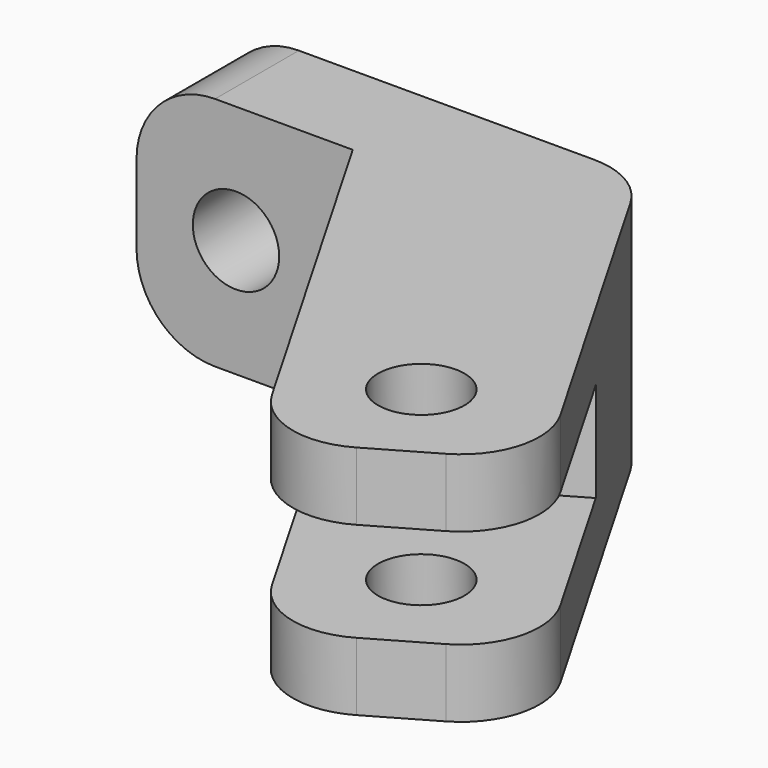
from build123d import *

# Parameters (mm, degrees)
F1_DEPTH = 9
F3_W     = 20
F3_H     = 3.8
F4_DEPTH = 25
F6_D     = 3.3
F7_D     = 3.3
F8_R     = 3


with BuildPart() as f1:
    # F0 (on Top) → F1 (new body)
    with BuildSketch(Plane.XY):
        Polygon((8, 2), (-8, 2), (-8, -2), (0.259353, -2), (9.756975, -18.450364), (17.294511, -14.098566), align=None)
    extrude(amount=F1_DEPTH)

    # F3 (on face) → F4 (cut)
    with BuildSketch(Plane(origin=(6.866025, 3.964102, 0), x_dir=(-0.5, 0.866025, 0), z_dir=(0.866025, 0.5, 0))):
        with Locations((-20.856972, 4.5)):
            Rectangle(F3_W, F3_H)
    extrude(amount=-F4_DEPTH, mode=Mode.SUBTRACT)

    # F6 (through all)
    with Locations(Plane.XY.offset(9)):
        with Locations((11.525743, -12.810364)):
            Hole(F6_D / 2)

    # F7 (through all)
    with Locations(Plane(origin=(0, 2, 0), x_dir=(-1, 0, 0), z_dir=(0, 1, 0))):
        with Locations((4.2, 4.5)):
            Hole(F7_D / 2)

    # F8
    f8_edges = [f1.edges().sort_by_distance(p)[0] for p in [
        (-8, 0, 9),
        (-8, 0, 0),
        (8, 2, 4.5),
        (17.294511, -14.098566, 7.7),
        (17.294511, -14.098566, 1.3),
        (9.756975, -18.450364, 7.7),
        (9.756975, -18.450364, 1.3),
    ]]
    fillet(f8_edges, radius=F8_R)


solid = f1.part
